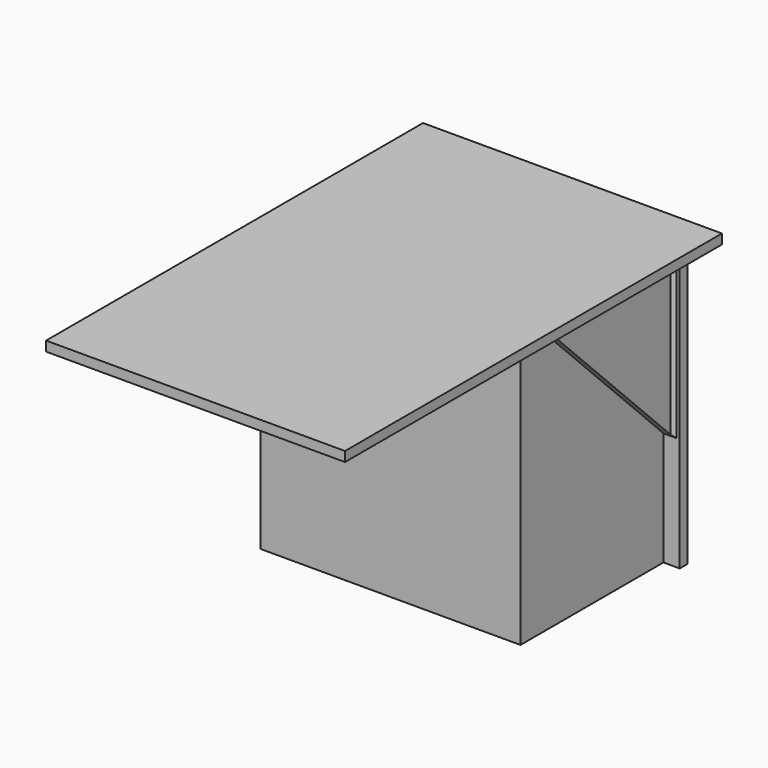
from build123d import *

# Parameters (mm, degrees)
SKETCH001_W     = 25
SKETCH001_H     = 82
SKETCH001_R     = 2
PAD_DEPTH       = 3
SKETCH003_W     = 7
SKETCH003_H     = 82
SKETCH003_W_2   = 3
SKETCH003_H_2   = 50
PAD006_DEPTH    = 3
SKETCH004_W     = 7
SKETCH004_H     = 82
SKETCH004_W_2   = 3
SKETCH004_H_2   = 50
PAD008_DEPTH    = 3
PAD009_DEPTH    = 3
PAD010_DEPTH    = 3
BOX_W           = 80
BOX_H           = 55
BOX_DEPTH       = 82
SKETCH006_W     = 1
SKETCH006_H     = 82
PAD011_DEPTH    = 1
CHAMFER_SIZE    = 0.99
CHAMFER001_SIZE = 0.99
PAD018_DEPTH    = 2
SKETCH007_W     = 1
SKETCH007_H     = 47
PAD012_DEPTH    = 1
CHAMFER003_SIZE = 0.99
PAD019_DEPTH    = 2
SKETCH008_W     = 1
SKETCH008_H     = 47
PAD013_DEPTH    = 1
CHAMFER002_SIZE = 0.99
PAD016_DEPTH    = 2
SKETCH002_W     = 92
SKETCH002_H     = 145
PAD007_DEPTH    = 3
SKETCH009_W     = 1
SKETCH009_H     = 47
PAD014_DEPTH    = 1
CHAMFER004_SIZE = 0.99
PAD017_DEPTH    = 2
SKETCH010_W     = 1
SKETCH010_H     = 47
PAD015_DEPTH    = 1
CHAMFER005_SIZE = 0.99


with BuildPart() as pad:
    # Sketch001 → Pad (new body)
    with BuildSketch(Plane(origin=(0, 55, 0), x_dir=(-1, 0, 0), z_dir=(0, 1, 0))):
        with Locations((-7.5, 41)):
            Rectangle(SKETCH001_W, SKETCH001_H)
        with Locations((-15, 76)):
            Circle(SKETCH001_R, mode=Mode.SUBTRACT)
        with Locations((-15, 6)):
            Circle(SKETCH001_R, mode=Mode.SUBTRACT)
        with Locations((-72.5, 41)):
            Rectangle(SKETCH001_W, SKETCH001_H)
        with Locations((-65.000015, 76)):
            Circle(SKETCH001_R, mode=Mode.SUBTRACT)
        with Locations((-65, 6)):
            Circle(SKETCH001_R, mode=Mode.SUBTRACT)
    extrude(amount=PAD_DEPTH)


with BuildPart() as pad006:
    # Sketch003 → Pad006 (new body)
    with BuildSketch(Plane(origin=(10, 0, 0), x_dir=(0, -1, 0), z_dir=(-1, 0, 0))):
        with Locations((-61.5, 41)):
            Rectangle(SKETCH003_W, SKETCH003_H)
        with Locations((-61, 43)):
            Rectangle(SKETCH003_W_2, SKETCH003_H_2, mode=Mode.SUBTRACT)
    extrude(amount=PAD006_DEPTH)


with BuildPart() as pad008:
    # Sketch004 → Pad008 (new body)
    with BuildSketch(Plane.YZ.offset(70)):
        with Locations((61.5, 41)):
            Rectangle(SKETCH004_W, SKETCH004_H)
        with Locations((61, 43)):
            Rectangle(SKETCH004_W_2, SKETCH004_H_2, mode=Mode.SUBTRACT)
    extrude(amount=PAD008_DEPTH)


with BuildPart() as pad009:
    # Sketch005 → Pad009 (new body)
    with BuildSketch(Plane.YZ.offset(80)):
        Polygon((8, 82), (55, 35), (55.09, 82), align=None)
    extrude(amount=PAD009_DEPTH)


with BuildPart() as pad010:
    # Sketch → Pad010 (new body)
    with BuildSketch(Plane(origin=(0, 0, 0), x_dir=(0, -1, 0), z_dir=(-1, 0, 0))):
        Polygon((-55, 82), (-55, 35), (-8, 82), align=None)
    extrude(amount=PAD010_DEPTH)


with BuildPart() as cube:
    # Box → Box (new body)
    with BuildSketch(Plane.XY):
        with Locations((40, 27.5)):
            Rectangle(BOX_W, BOX_H)
    extrude(amount=BOX_DEPTH)


with BuildPart() as chamfer001:
    # Sketch006 → Pad011 (new body)
    with BuildSketch(Plane.XZ.offset(-59)):
        with Locations((6.5, 41)):
            Rectangle(SKETCH006_W, SKETCH006_H)
        with Locations((73.5, 41)):
            Rectangle(SKETCH006_W, SKETCH006_H)
    extrude(amount=PAD011_DEPTH)

    # Chamfer
    chamfer_edges = [chamfer001.edges().sort_by_distance(p)[0] for p in [
        (74, 59, 41),
    ]]
    chamfer(chamfer_edges, length=CHAMFER_SIZE)

    # Chamfer001
    chamfer001_edges = [chamfer001.edges().sort_by_distance(p)[0] for p in [
        (6, 59, 41),
    ]]
    chamfer(chamfer001_edges, length=CHAMFER001_SIZE)


with BuildPart() as pad018:
    # Sketch013 → Pad018 (new body)
    with BuildSketch(Plane.YZ.offset(-3)):
        Polygon((54, 36), (54, 35), (55, 35), align=None)
    extrude(amount=-PAD018_DEPTH)


with BuildPart() as cut002:
    # Sketch007 → Pad012 (new body)
    with BuildSketch(Plane.YZ.offset(-3)):
        with Locations((54.5, 58.5)):
            Rectangle(SKETCH007_W, SKETCH007_H)
    extrude(amount=-PAD012_DEPTH)

    # Chamfer003
    chamfer003_edges = [cut002.edges().sort_by_distance(p)[0] for p in [
        (-4, 54, 58.5),
    ]]
    chamfer(chamfer003_edges, length=CHAMFER003_SIZE)

    # Cut002: cut Pad018
    add(pad018.part, mode=Mode.SUBTRACT)


with BuildPart() as pad019:
    # Sketch014 → Pad019 (new body)
    with BuildSketch(Plane(origin=(83, 0, 0), x_dir=(0, -1, 0), z_dir=(-1, 0, 0))):
        Polygon((-55, 35), (-54, 35), (-54, 36), align=None)
    extrude(amount=-PAD019_DEPTH)


with BuildPart() as cut003:
    # Sketch008 → Pad013 (new body)
    with BuildSketch(Plane.YZ.offset(83)):
        with Locations((54.5, 58.5)):
            Rectangle(SKETCH008_W, SKETCH008_H)
    extrude(amount=PAD013_DEPTH)

    # Chamfer002
    chamfer002_edges = [cut003.edges().sort_by_distance(p)[0] for p in [
        (84, 54, 58.5),
    ]]
    chamfer(chamfer002_edges, length=CHAMFER002_SIZE)

    # Cut003: cut Pad019
    add(pad019.part, mode=Mode.SUBTRACT)


with BuildPart() as pad016:
    # Sketch011 → Pad016 (new body)
    with BuildSketch(Plane.YZ.offset(-2)):
        Polygon((8, 82), (9, 81), (8, 81), align=None)
    extrude(amount=-PAD016_DEPTH)


with BuildPart() as chamfer004:
    # Sketch002 → Pad007 (new body)
    with BuildSketch(Plane.XY.offset(82)):
        with Locations((40, -2.5)):
            Rectangle(SKETCH002_W, SKETCH002_H)
    extrude(amount=PAD007_DEPTH)

    # Sketch009 → Pad014 (new body)
    with BuildSketch(Plane(origin=(0, 0, 82), x_dir=(1, 0, 0), z_dir=(0, 0, -1))):
        with Locations((-3.5, -31.5)):
            Rectangle(SKETCH009_W, SKETCH009_H)
    extrude(amount=PAD014_DEPTH)

    # Cut: cut Pad016
    add(pad016.part, mode=Mode.SUBTRACT)

    # Chamfer004
    chamfer004_edges = [chamfer004.edges().sort_by_distance(p)[0] for p in [
        (-4, 32, 81),
    ]]
    chamfer(chamfer004_edges, length=CHAMFER004_SIZE)


with BuildPart() as pad017:
    # Sketch012 → Pad017 (new body)
    with BuildSketch(Plane.YZ.offset(83)):
        Polygon((8, 81), (8.99996, 80.991035), (8, 82), align=None)
    extrude(amount=PAD017_DEPTH)


with BuildPart() as chamfer005:
    # Sketch010 → Pad015 (new body)
    with BuildSketch(Plane.XY.offset(82)):
        with Locations((83.5, 31.5)):
            Rectangle(SKETCH010_W, SKETCH010_H)
    extrude(amount=-PAD015_DEPTH)

    # Cut001: cut Pad017
    add(pad017.part, mode=Mode.SUBTRACT)

    # Chamfer005
    chamfer005_edges = [chamfer005.edges().sort_by_distance(p)[0] for p in [
        (84, 31.995537, 81),
    ]]
    chamfer(chamfer005_edges, length=CHAMFER005_SIZE)


solid = Compound([pad.part, pad006.part, pad008.part, pad009.part, pad010.part, cube.part, chamfer001.part, cut002.part, cut003.part, chamfer004.part, chamfer005.part])
